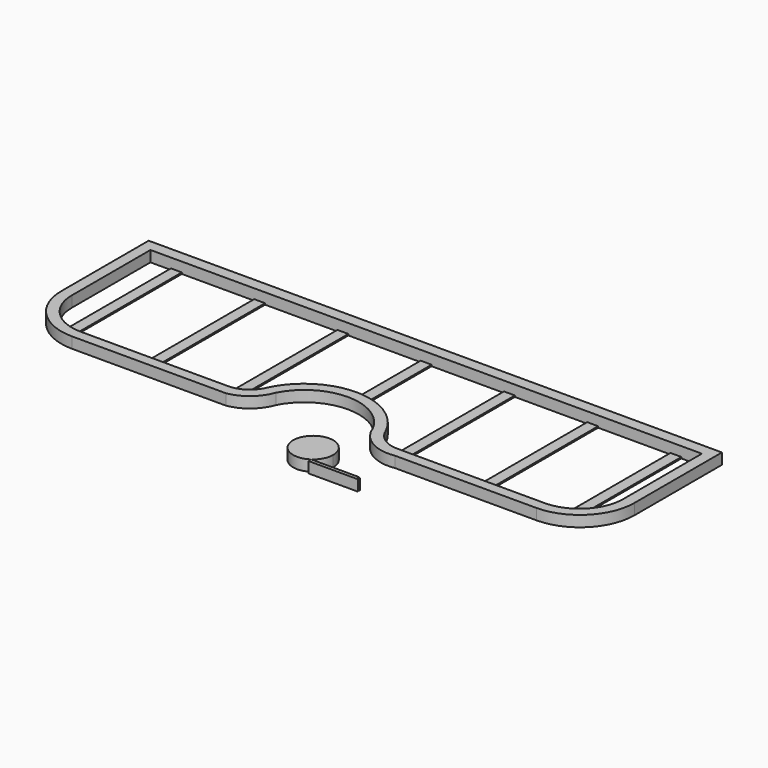
from build123d import *

# Parameters (mm, degrees)
F1_DEPTH = 40
F2_DEPTH = 5
F0_W     = 40
F0_H     = 520
F3_DEPTH = 5
F4_DEPTH = 5
F5_DEPTH = 5
F6_DEPTH = 5
F7_DEPTH = 5
F8_DEPTH = 5


with BuildPart() as f1:
    # F0 (on Top) → F1 (new body)
    with BuildSketch(Plane.XY):
        with BuildLine():
            ThreePointArc((143.147528, -473.073424), (166.773863, -446.722334), (175.31182, -412.375763))
            ThreePointArc((175.31182, -412.375763), (37.142125, -378.029192), (143.147528, -473.073424))
        make_face()
        Polygon((317.676343, -473.073424), (143.147528, -473.073424), (143.147528, -485.728025), (325.455095, -485.728025), (317.895805, -481.801136), (324.413556, -476.505198), align=None)
        with BuildLine():
            ThreePointArc((161.206331, -213.062815), (165.629703, -224.241992), (170.99589, -235.000442))
            ThreePointArc((170.99589, -235.000442), (166.430785, -223.884513), (161.206331, -213.062815))
        make_face()
        with BuildLine():
            Line((1033.790737, 294.613262), (-1066.209263, 294.613262))
            Line((-1066.209263, 294.613262), (-1066.209263, -105.386738))
            ThreePointArc((-1066.209263, -105.386738), (-1007.63062, -246.808094), (-866.209263, -305.386738))
            Line((-866.209263, -305.386738), (-302.669152, -305.386738))
            ThreePointArc((-302.669152, -305.386738), (-235.348722, -274.102794), (-193.486715, -212.797835))
            ThreePointArc((-193.486715, -212.797835), (-16.05985, -105.386794), (161.206331, -213.062815))
            ThreePointArc((161.206331, -213.062815), (166.430785, -223.884513), (170.99589, -235.000442))
            ThreePointArc((170.99589, -235.000442), (232.300719, -293.116494), (315.878219, -305.386738))
            Line((315.878219, -305.386738), (833.790737, -305.386738))
            ThreePointArc((833.790737, -305.386738), (975.212093, -246.808094), (1033.790737, -105.386738))
            Line((1033.790737, -105.386738), (1033.790737, 294.613262))
        make_face()
        with BuildLine():
            Line((-1026.209263, -107.190434), (-1026.209263, 252.809566))
            Line((-1026.209263, 252.809566), (-951.209263, 252.809566))
            Line((-951.209263, 252.809566), (-911.209263, 252.809566))
            Line((-911.209263, 252.809566), (-646.209263, 252.809566))
            Line((-646.209263, 252.809566), (-606.209263, 252.809566))
            Line((-606.209263, 252.809566), (-341.209263, 252.809566))
            Line((-341.209263, 252.809566), (-301.209263, 252.809566))
            Line((-301.209263, 252.809566), (-36.209263, 252.809566))
            Line((-36.209263, 252.809566), (3.790737, 252.809566))
            Line((3.790737, 252.809566), (268.790737, 252.809566))
            Line((268.790737, 252.809566), (308.790737, 252.809566))
            Line((308.790737, 252.809566), (573.790737, 252.809566))
            Line((573.790737, 252.809566), (613.790737, 252.809566))
            Line((613.790737, 252.809566), (878.790737, 252.809566))
            Line((878.790737, 252.809566), (918.790737, 252.809566))
            Line((918.790737, 252.809566), (993.790737, 252.809566))
            Line((993.790737, 252.809566), (993.790737, -107.190434))
            ThreePointArc((993.790737, -107.190434), (973.790737, -184.650101), (918.790737, -242.744851))
            ThreePointArc((918.790737, -242.744851), (899.409972, -253.11547), (878.790737, -260.73196))
            ThreePointArc((878.790737, -260.73196), (856.521288, -265.567586), (833.790737, -267.190434))
            Line((833.790737, -267.190434), (613.790737, -267.190434))
            Line((613.790737, -267.190434), (573.790737, -267.190434))
            Line((573.790737, -267.190434), (391.457326, -267.190434))
            Line((391.457326, -267.190434), (308.790737, -267.190434))
            Line((308.790737, -267.190434), (293.477745, -267.190434))
            ThreePointArc((293.477745, -267.190434), (281.037605, -266.413633), (268.790737, -264.095295))
            ThreePointArc((268.790737, -264.095295), (230.929719, -245.21444), (204.264442, -212.367731))
            ThreePointArc((204.264442, -212.367731), (202.356285, -208.38365), (200.625941, -204.319184))
            ThreePointArc((200.625941, -204.319184), (120.417014, -109.875305), (3.790737, -68.025219))
            ThreePointArc((3.790737, -68.025219), (-16.209263, -67.190434), (-36.209263, -68.025219))
            ThreePointArc((-36.209263, -68.025219), (-156.810092, -112.68746), (-237.038771, -213.199324))
            ThreePointArc((-237.038771, -213.199324), (-263.653504, -245.594422), (-301.209263, -264.231786))
            ThreePointArc((-301.209263, -264.231786), (-310.867426, -266.191191), (-320.671553, -267.190434))
            Line((-320.671553, -267.190434), (-341.209263, -267.190434))
            Line((-341.209263, -267.190434), (-606.209263, -267.190434))
            Line((-606.209263, -267.190434), (-646.209263, -267.190434))
            Line((-646.209263, -267.190434), (-866.209263, -267.190434))
            ThreePointArc((-866.209263, -267.190434), (-888.939815, -265.567586), (-911.209263, -260.73196))
            ThreePointArc((-911.209263, -260.73196), (-931.828498, -253.11547), (-951.209263, -242.744851))
            ThreePointArc((-951.209263, -242.744851), (-1006.209263, -184.650101), (-1026.209263, -107.190434))
        make_face(mode=Mode.SUBTRACT)
    extrude(amount=F1_DEPTH)

    # F0 (on Top) → F2 (join)
    with BuildSketch(Plane.XY):
        with BuildLine():
            Line((-911.209263, 252.809566), (-951.209263, 252.809566))
            Line((-951.209263, 252.809566), (-951.209263, -242.744851))
            ThreePointArc((-951.209263, -242.744851), (-931.828498, -253.11547), (-911.209263, -260.73196))
            Line((-911.209263, -260.73196), (-911.209263, 252.809566))
        make_face()
    extrude(amount=F2_DEPTH)

    # F0 (on Top) → F3 (join)
    with BuildSketch(Plane.XY):
        with Locations((-626.209263, -7.190434)):
            Rectangle(F0_W, F0_H)
    extrude(amount=F3_DEPTH)

    # F0 (on Top) → F4 (join)
    with BuildSketch(Plane.XY):
        with BuildLine():
            Line((-301.209263, 252.809566), (-341.209263, 252.809566))
            Line((-341.209263, 252.809566), (-341.209263, -267.190434))
            Line((-341.209263, -267.190434), (-320.671553, -267.190434))
            ThreePointArc((-320.671553, -267.190434), (-310.867426, -266.191191), (-301.209263, -264.231786))
            Line((-301.209263, -264.231786), (-301.209263, 252.809566))
        make_face()
    extrude(amount=F4_DEPTH)

    # F0 (on Top) → F5 (join)
    with BuildSketch(Plane.XY):
        with BuildLine():
            Line((3.790737, 252.809566), (-36.209263, 252.809566))
            Line((-36.209263, 252.809566), (-36.209263, -68.025219))
            ThreePointArc((-36.209263, -68.025219), (-16.209263, -67.190434), (3.790737, -68.025219))
            Line((3.790737, -68.025219), (3.790737, 252.809566))
        make_face()
    extrude(amount=F5_DEPTH)

    # F0 (on Top) → F6 (join)
    with BuildSketch(Plane.XY):
        with BuildLine():
            Line((308.790737, 252.809566), (268.790737, 252.809566))
            Line((268.790737, 252.809566), (268.790737, -264.095295))
            ThreePointArc((268.790737, -264.095295), (281.037605, -266.413633), (293.477745, -267.190434))
            Line((293.477745, -267.190434), (308.790737, -267.190434))
            Line((308.790737, -267.190434), (308.790737, -266.147713))
            Line((308.790737, -266.147713), (308.790737, 252.809566))
        make_face()
    extrude(amount=F6_DEPTH)

    # F0 (on Top) → F7 (join)
    with BuildSketch(Plane.XY):
        with Locations((593.790737, -7.190434)):
            Rectangle(F0_W, F0_H)
    extrude(amount=F7_DEPTH)

    # F0 (on Top) → F8 (join)
    with BuildSketch(Plane.XY):
        with BuildLine():
            Line((918.790737, 252.809566), (878.790737, 252.809566))
            Line((878.790737, 252.809566), (878.790737, -260.73196))
            ThreePointArc((878.790737, -260.73196), (899.409972, -253.11547), (918.790737, -242.744851))
            Line((918.790737, -242.744851), (918.790737, 252.809566))
        make_face()
    extrude(amount=F8_DEPTH)


solid = f1.part
